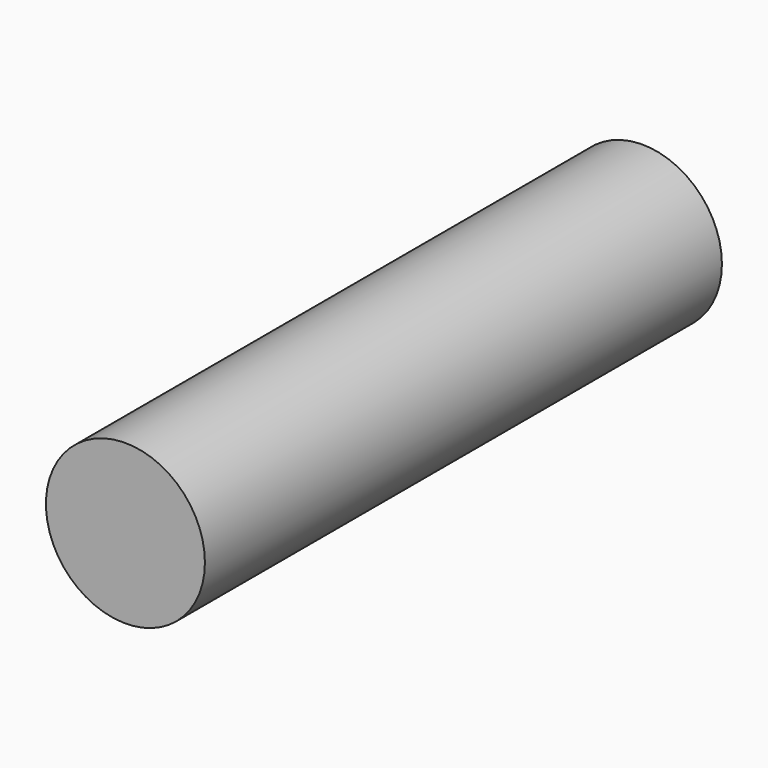
from build123d import *

# Parameters (mm, degrees)
F0_R     = 12.3
F0_R_2   = 11.1
F1_DEPTH = 100
F2_DEPTH = 2


with BuildPart() as f1:
    # F0 (on Front) → F1 (new body)
    with BuildSketch(Plane.XZ):
        Circle(F0_R)
        Circle(F0_R_2, mode=Mode.SUBTRACT)
    extrude(amount=-F1_DEPTH)

    # F0 (on Front) → F2 (join)
    with BuildSketch(Plane.XZ):
        Circle(F0_R_2)
    extrude(amount=-F2_DEPTH)


solid = f1.part
